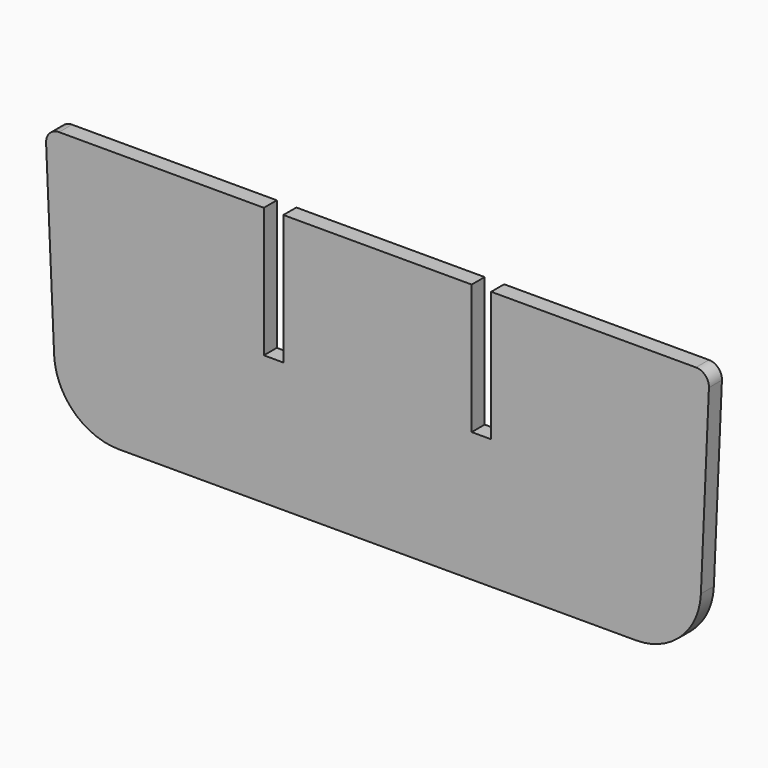
from build123d import *

# Parameters (mm, degrees)
F1_DEPTH = 3.175
F2_W     = 7.62
F2_H     = 50.8
F3_DEPTH = 12.7
F4_R     = 25.4
F5_R     = 5.08


with BuildPart() as f1:
    # F0 (on Front) → F1 (new body, symmetric)
    with BuildSketch(Plane.XZ):
        Polygon((129.848452, 101.6), (-129.848452, 101.6), (-125.4125, 0), (125.4125, 0), align=None)
    extrude(amount=F1_DEPTH, both=True)

    # F2 (on Front) → F3 (cut, symmetric)
    with BuildSketch(Plane.XZ):
        with Locations((-40.64, 76.2)):
            Rectangle(F2_W, F2_H)
        with Locations((40.64, 76.2)):
            Rectangle(F2_W, F2_H)
    extrude(amount=F3_DEPTH, both=True, mode=Mode.SUBTRACT)

    # F4
    f4_edges = [f1.edges().sort_by_distance(p)[0] for p in [
        (-125.4125, 0, 0),
        (125.4125, 0, 0),
    ]]
    fillet(f4_edges, radius=F4_R)

    # F5
    f5_edges = [f1.edges().sort_by_distance(p)[0] for p in [
        (-129.848452, 0, 101.6),
        (129.848452, 0, 101.6),
    ]]
    fillet(f5_edges, radius=F5_R)


solid = f1.part
